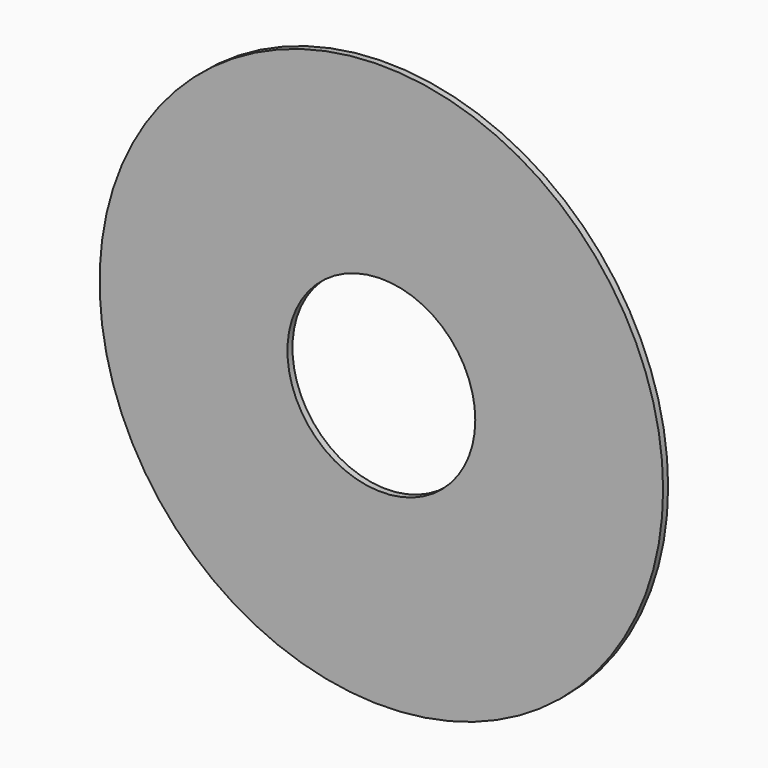
from build123d import *

# Parameters (mm, degrees)
F1_R     = 22.5
F1_R_2   = 7.5
F2_DEPTH = 0.5


with BuildPart() as f2:
    # F1 (on face) → F2 (new body)
    with BuildSketch(Plane.XZ):
        Circle(F1_R)
        Circle(F1_R_2, mode=Mode.SUBTRACT)
    extrude(amount=F2_DEPTH)


solid = f2.part
